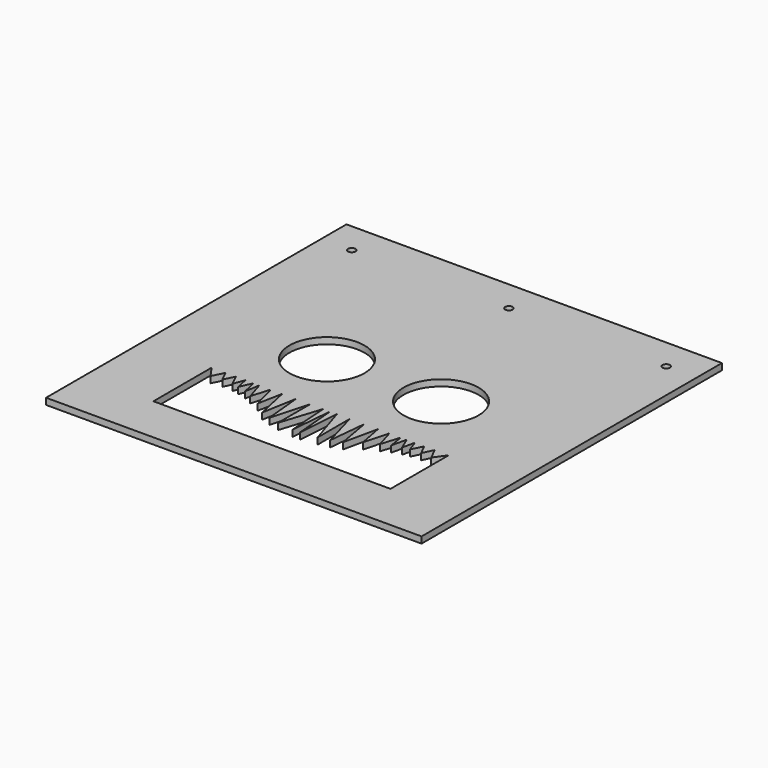
from build123d import *

# Parameters (mm, degrees)
F0_W     = 254
F0_H     = 254
F0_R     = 25.4
F0_R_2   = 2.5019
F1_DEPTH = 4.318
F2_DEPTH = 4.318


with BuildPart() as f1:
    # F0 (on Top) → F1 (new body)
    with BuildSketch(Plane.XY):
        Rectangle(F0_W, F0_H)
        Polygon((80.19489, -94.75477), (0, -94.75477), (-80.19489, -94.75477), (-80.19489, -45.528512), (-74.648269, -53.386223), (-70.719413, -45.528512), (-67.252778, -52.692898), (-63.786134, -45.528512), (-60.088389, -53.155113), (-57.315081, -45.528512), (-55.466205, -54.079551), (-51.768459, -45.528512), (-49.457368, -55.697314), (-47.839604, -45.528512), (-43.910746, -58.239516), (-40.097445, -45.528512), (-35.590816, -62.399484), (-32.355286, -45.528512), (-27.270885, -68.870537), (-23.110919, -45.528512), (-20.568719, -71.181633), (-13.404333, -45.759622), (-13.404333, -73.030502), (-4.622183, -45.528512), (-2.542201, -74.186057), (0, -45.528512), (2.542201, -74.186057), (4.622183, -45.528512), (13.404333, -73.030502), (13.404333, -45.759622), (20.568719, -71.181633), (23.110919, -45.528512), (27.270885, -68.870537), (32.355286, -45.528512), (35.590816, -62.399484), (40.097445, -45.528512), (43.910746, -58.239516), (47.839604, -45.528512), (49.457368, -55.697314), (51.768459, -45.528512), (55.466205, -54.079551), (57.315081, -45.528512), (60.088389, -53.155113), (63.786134, -45.528512), (67.252778, -52.692898), (70.719413, -45.528512), (74.648269, -53.386223), (80.19489, -45.528512), align=None, mode=Mode.SUBTRACT)
        with Locations((-38.595237, 0)):
            Circle(F0_R, mode=Mode.SUBTRACT)
        with Locations((-106.362015, 105.66321)):
            Circle(F0_R_2, mode=Mode.SUBTRACT)
        with Locations((38.595237, 0)):
            Circle(F0_R, mode=Mode.SUBTRACT)
        with Locations((0, 105.66321)):
            Circle(F0_R_2, mode=Mode.SUBTRACT)
        with Locations((106.362015, 105.66321)):
            Circle(F0_R_2, mode=Mode.SUBTRACT)
    extrude(amount=F1_DEPTH)

    # F0 (on Top) → F2 (join)
    with BuildSketch(Plane.XY):
        Rectangle(F0_W, F0_H)
        Polygon((80.19489, -94.75477), (0, -94.75477), (-80.19489, -94.75477), (-80.19489, -45.528512), (-74.648269, -53.386223), (-70.719413, -45.528512), (-67.252778, -52.692898), (-63.786134, -45.528512), (-60.088389, -53.155113), (-57.315081, -45.528512), (-55.466205, -54.079551), (-51.768459, -45.528512), (-49.457368, -55.697314), (-47.839604, -45.528512), (-43.910746, -58.239516), (-40.097445, -45.528512), (-35.590816, -62.399484), (-32.355286, -45.528512), (-27.270885, -68.870537), (-23.110919, -45.528512), (-20.568719, -71.181633), (-13.404333, -45.759622), (-13.404333, -73.030502), (-4.622183, -45.528512), (-2.542201, -74.186057), (0, -45.528512), (2.542201, -74.186057), (4.622183, -45.528512), (13.404333, -73.030502), (13.404333, -45.759622), (20.568719, -71.181633), (23.110919, -45.528512), (27.270885, -68.870537), (32.355286, -45.528512), (35.590816, -62.399484), (40.097445, -45.528512), (43.910746, -58.239516), (47.839604, -45.528512), (49.457368, -55.697314), (51.768459, -45.528512), (55.466205, -54.079551), (57.315081, -45.528512), (60.088389, -53.155113), (63.786134, -45.528512), (67.252778, -52.692898), (70.719413, -45.528512), (74.648269, -53.386223), (80.19489, -45.528512), align=None, mode=Mode.SUBTRACT)
        with Locations((-38.595237, 0)):
            Circle(F0_R, mode=Mode.SUBTRACT)
        with Locations((-106.362015, 105.66321)):
            Circle(F0_R_2, mode=Mode.SUBTRACT)
        with Locations((38.595237, 0)):
            Circle(F0_R, mode=Mode.SUBTRACT)
        with Locations((0, 105.66321)):
            Circle(F0_R_2, mode=Mode.SUBTRACT)
        with Locations((106.362015, 105.66321)):
            Circle(F0_R_2, mode=Mode.SUBTRACT)
    extrude(amount=F2_DEPTH)


solid = f1.part
